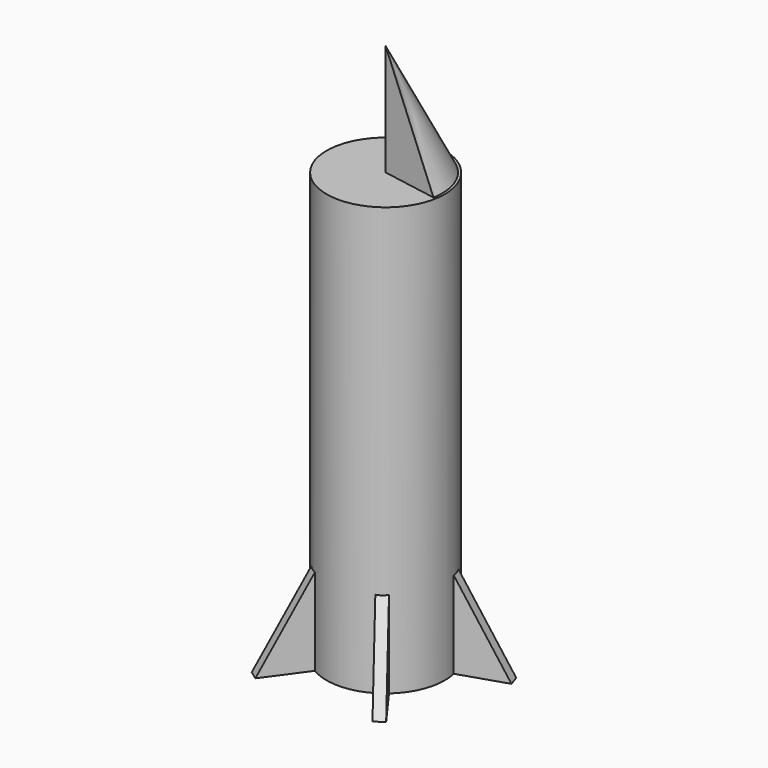
from build123d import *

# Parameters (mm, degrees)
F0_R     = 35.048486
F1_DEPTH = 254
F3_DEPTH = 3.175
F4_COUNT = 5
F6_ANGLE = -100


with BuildPart() as f1:
    # F0 (on Top) → F1 (new body)
    with BuildSketch(Plane.XY):
        Circle(F0_R)
    extrude(amount=F1_DEPTH)

    # F2 (on Right) → F3 (join, symmetric)
    with BuildSketch(Plane.YZ):
        Polygon((0, 114.3), (0, 0), (63.5, 0), align=None)
    extrude(amount=F3_DEPTH, both=True)



with BuildPart() as f4_1:
    # F4: instance of F1
    add(f1.part.rotate(Axis((0, 0, 0), (0, 0, -1)), 1 * 360 / F4_COUNT))


with BuildPart() as f4_2:
    # F4: instance of F1
    add(f1.part.rotate(Axis((0, 0, 0), (0, 0, -1)), 2 * 360 / F4_COUNT))


with BuildPart() as f4_3:
    # F4: instance of F1
    add(f1.part.rotate(Axis((0, 0, 0), (0, 0, -1)), 3 * 360 / F4_COUNT))


with BuildPart() as f4_4:
    # F4: instance of F1
    add(f1.part.rotate(Axis((0, 0, 0), (0, 0, -1)), 4 * 360 / F4_COUNT))


with BuildPart() as f1_1:
    add(f1.part)

    add(f4_1.part)  # F6 merges F4_1

    add(f4_2.part)  # F6 merges F4_2

    add(f4_3.part)  # F6 merges F4_3

    add(f4_4.part)  # F6 merges F4_4
    # F5 (on Right) → F6 (revolve)
    with BuildSketch(Plane.YZ):
        Polygon((0, 320.025444), (0, 253.76758), (34.447256, 252.273053), align=None)
    revolve(axis=Axis((0, 0, 286.896512), (0, 0, 1)), revolution_arc=F6_ANGLE)


solid = f1_1.part
